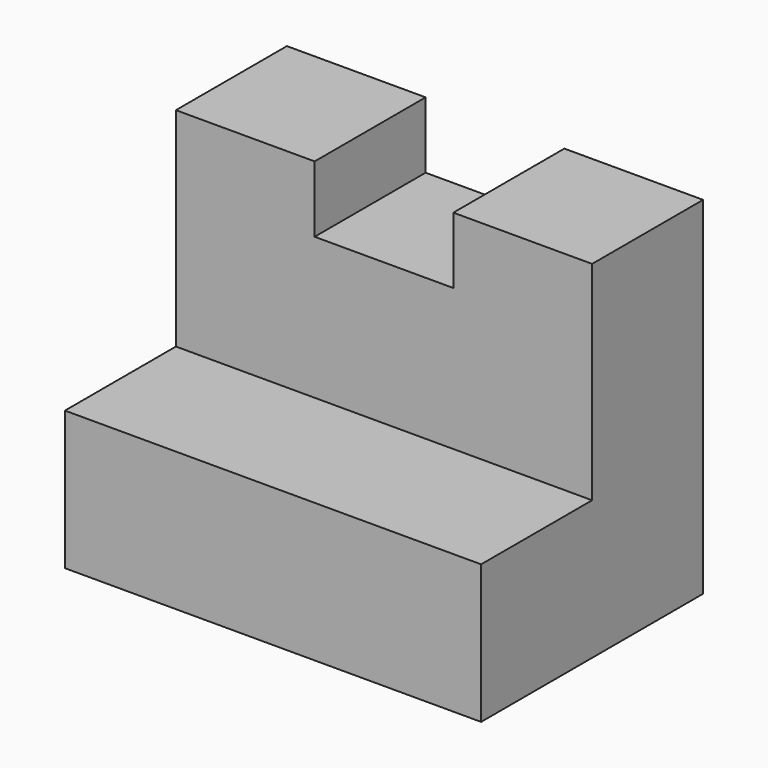
from build123d import *

# Parameters (mm, degrees)
F1_DEPTH = 38.1
F2_W     = 12.7
F2_H     = 6.35
F3_DEPTH = 15.486647


with BuildPart() as f1:
    # F0 (on Right) → F1 (new body)
    with BuildSketch(Plane.YZ):
        Polygon((15.485647, -47.346821), (15.485647, -15.596821), (2.785647, -15.596821), (2.785647, -34.646821), (-9.914353, -34.646821), (-9.914353, -47.346821), align=None)
    extrude(amount=F1_DEPTH)

    # F2 (on Front) → F3 (cut, through all)
    with BuildSketch(Plane.XZ):
        with Locations((19.05, -18.496065)):
            Rectangle(F2_W, F2_H)
    extrude(amount=-F3_DEPTH, mode=Mode.SUBTRACT)


solid = f1.part
